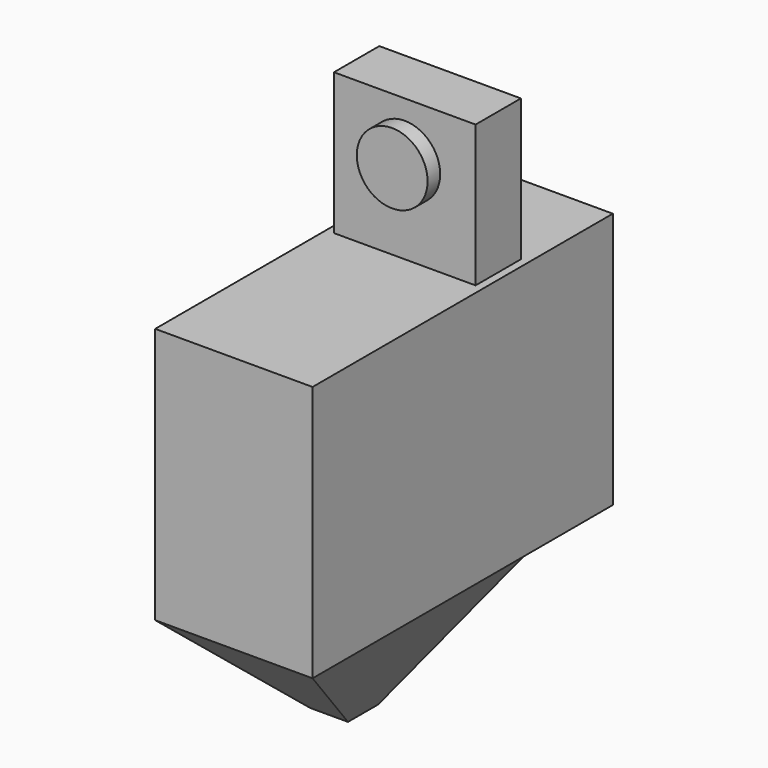
from build123d import *

# Parameters (mm, degrees)
F0_W     = 1016
F0_H     = 2423.16
F1_DEPTH = 1656.08
F2_W     = 914.4
F2_H     = 365.76
F3_DEPTH = 914.4
F4_R     = 228.6
F5_DEPTH = 101.6
F7_W     = 1016
F7_H     = 1701.8
F8_W     = 243.84
F8_H     = 243.84


with BuildPart() as f1:
    # F0 (on Top) → F1 (new body)
    with BuildSketch(Plane.XY):
        with Locations((508, 1211.58)):
            Rectangle(F0_W, F0_H)
    extrude(amount=F1_DEPTH)

    # F2 (on face) → F3 (join)
    with BuildSketch(Plane.XY.offset(1656.08)):
        with Locations((508, 1562.1)):
            Rectangle(F2_W, F2_H)
    extrude(amount=F3_DEPTH)

    # F4 (on face) → F5 (join)
    with BuildSketch(Plane.XZ.offset(-1379.22)):
        with Locations((508, 2214.88)):
            Circle(F4_R)
    extrude(amount=F5_DEPTH)

    # F7 (on face) → F9 section 0
    with BuildSketch(Plane(origin=(0, 0, 0), x_dir=(1, 0, 0), z_dir=(0, 0, -1))):
        with Locations((508, -850.9)):
            Rectangle(F7_W, F7_H)
    # F8 (on offset) → F9 section 1
    with BuildSketch(Plane.XY.offset(-685.8)):
        with Locations((508, 890.442318)):
            Rectangle(F8_W, F8_H)
    loft()


solid = f1.part
